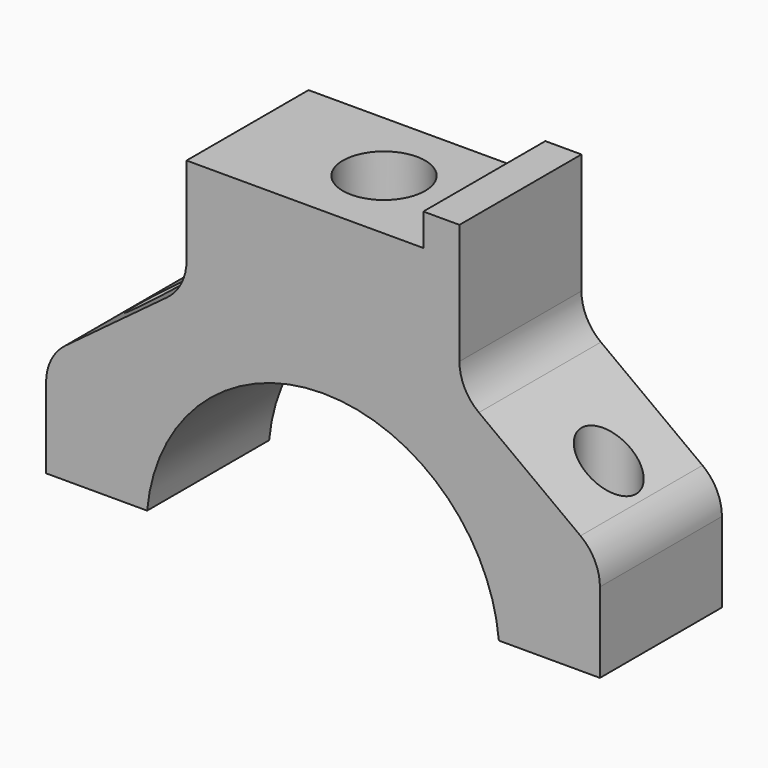
from build123d import *

# Parameters (mm, degrees)
F1_DEPTH       = 9.5
F3_D           = 6.8
F3_START       = 2
F3_CSINK_D     = 8.5
F3_CSINK_ANGLE = 90
F5_D           = 10.25
F5_START       = 22.0000001
F5_CBORE_D     = 16
F5_CBORE_DEPTH = 10.5
F6_W           = 29.5
F6_H           = 4
F7_DEPTH       = 19
F8_R           = 6
F9_R           = 6


with BuildPart() as f1:
    # F0 (on Front) → F1 (new body, symmetric)
    with BuildSketch(Plane.XZ):
        with BuildLine():
            Line((-34.5, 2), (-21.9089023002, 2))
            ThreePointArc((-21.9089023002, 2), (-14.8323969742, 16.2480768093), (0, 22))
            ThreePointArc((0, 22), (14.8323969742, 16.2480768093), (21.9089023002, 2))
            Line((21.9089023002, 2), (34.5, 2))
            Line((34.5, 2), (34.5, 15))
            Line((34.5, 15), (17, 28))
            Line((17, 28), (17, 46))
            Line((17, 46), (0, 46))
            Line((0, 46), (-17, 46))
            Line((-17, 46), (-17, 28))
            Line((-17, 28), (-34.5, 15))
            Line((-34.5, 15), (-34.5, 2))
        make_face()
    extrude(amount=F1_DEPTH, both=True)

    # F3 (through all)
    # its depths count from where the whole tool has entered the part; down to there all is cleared
    with Locations(Plane(origin=(0, 0, 0), x_dir=(1, 0, 0), z_dir=(0, 0, -1)).offset(-F3_START)):
        with Locations((28, 0), (-28, 0)):
            CounterSinkHole(F3_D / 2, F3_CSINK_D / 2, counter_sink_angle=F3_CSINK_ANGLE)

    # F5 (through all)
    # its depths count from where the whole tool has entered the part; down to there all is cleared
    with Locations(Plane(origin=(0, 0, 0), x_dir=(1, 0, 0), z_dir=(0, 0, -1)).offset(-F5_START)):
        with Locations((0, 0)):
            CounterBoreHole(F5_D / 2, F5_CBORE_D / 2, F5_CBORE_DEPTH)

    # F6 (on face) → F7 (cut)
    with BuildSketch(Plane.XZ.offset(9.5)):
        with Locations((-2.25, 44)):
            Rectangle(F6_W, F6_H)
    extrude(amount=-F7_DEPTH, mode=Mode.SUBTRACT)

    # F8
    f8_edges = [f1.edges().sort_by_distance(p)[0] for p in [
        (17, 0, 28),
        (-17, 0, 28),
    ]]
    fillet(f8_edges, radius=F8_R)

    # F9
    f9_edges = [f1.edges().sort_by_distance(p)[0] for p in [
        (34.5, 0, 15),
        (-34.5, 0, 15),
    ]]
    fillet(f9_edges, radius=F9_R)


solid = f1.part
